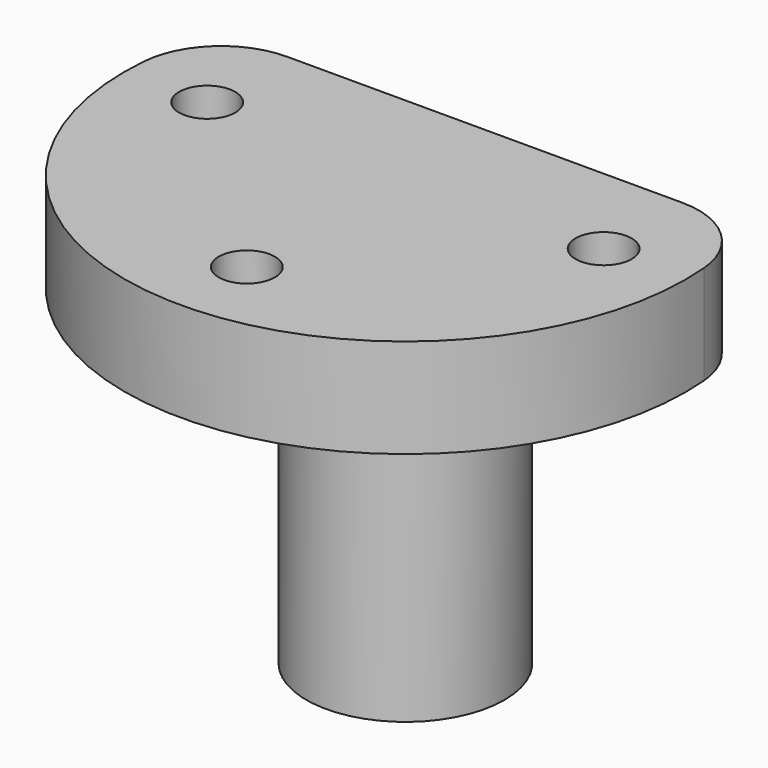
from build123d import *

# Parameters (mm, degrees)
PAD_DEPTH    = 6
SKETCH001_R  = 6
PAD001_DEPTH = 20
SKETCH002_R  = 1.7
POCKET_DEPTH = 6.001
FILLET_R     = 5


with BuildPart() as part:
    # Sketch → Pad (new body)
    with BuildSketch(Plane.XY):
        with BuildLine():
            ThreePointArc((-15.905974, 6), (0, -17), (15.905974, 6))
            Line((-15.905974, 6), (15.905974, 6))
        make_face()
    extrude(amount=PAD_DEPTH)

    # Sketch001 → Pad001 (new body)
    with BuildSketch(Plane(origin=(0, 0, 0), x_dir=(1, 0, 0), z_dir=(0, 0, -1))):
        Circle(SKETCH001_R)
    extrude(amount=PAD001_DEPTH)

    # Sketch002 → Pocket (cut, through all)
    with BuildSketch(Plane(origin=(0, 0, 0), x_dir=(1, 0, 0), z_dir=(0, 0, -1))):
        with Locations((12, 0)):
            Circle(SKETCH002_R)
        with Locations((-12, 0)):
            Circle(SKETCH002_R)
        with Locations((0, 12)):
            Circle(SKETCH002_R)
    extrude(amount=-POCKET_DEPTH, mode=Mode.SUBTRACT)

    # Fillet
    fillet_edges = [part.edges().sort_by_distance(p)[0] for p in [
        (-15.905974, 6, 3),
        (15.905974, 6, 3),
    ]]
    fillet(fillet_edges, radius=FILLET_R)


solid = part.part
